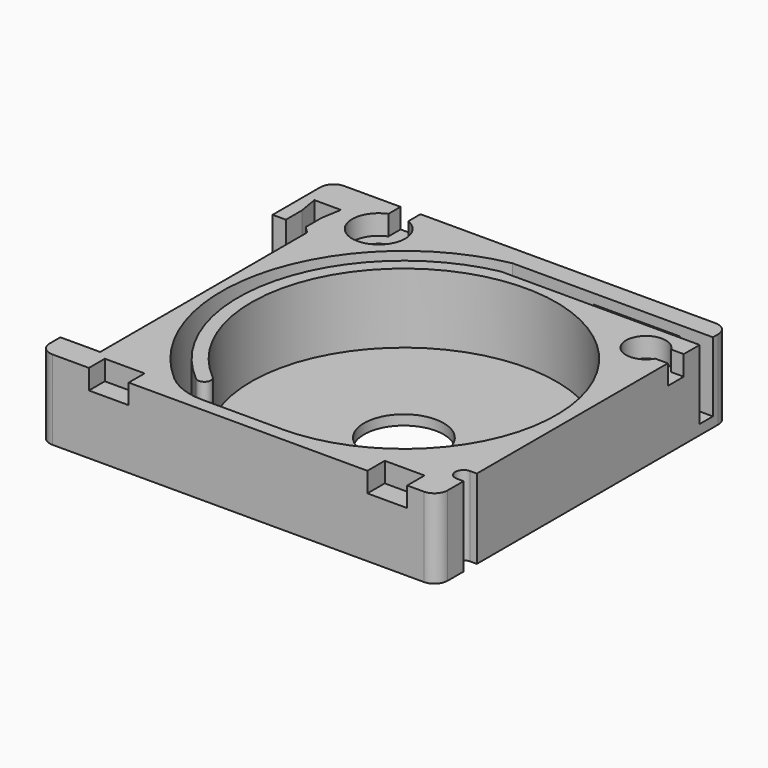
from build123d import *

# Parameters (mm, degrees)
SKETCH_R        = 6
PAD_DEPTH       = 12
POCKET_DEPTH    = 10.5
FILLET_R        = 9
POCKET001_DEPTH = 12.001
SKETCH003_W     = 6
SKETCH003_H     = 40
POCKET002_DEPTH = 10.5
POCKET003_DEPTH = 10
SKETCH005_R     = 4
SKETCH005_R_2   = 3
SKETCH005_W     = 6
SKETCH005_H     = 3
SKETCH005_H_2   = 3.266556
POCKET004_DEPTH = 3
SKETCH006_W     = 13
SKETCH006_H     = 9
POCKET005_DEPTH = 5
POCKET006_DEPTH = 10.5
SKETCH008_W     = 15
SKETCH008_H     = 3
POCKET007_DEPTH = 1.5
SKETCH009_W     = 15
SKETCH009_H     = 3
PAD001_DEPTH    = 1.5
POCKET008_DEPTH = 3
FILLET001_R     = 0.25
SKETCH011_R     = 2
POCKET009_DEPTH = 9.001
CHAMFER_SIZE    = 1


with BuildPart() as part:
    # Sketch → Pad (new body)
    with BuildSketch(Plane.XY):
        with BuildLine():
            ThreePointArc((-33, 30), (-34.414214, 29.414214), (-35, 28))
            Line((-35, -23), (-35, 28))
            ThreePointArc((-35, -23), (-34.414214, -24.414214), (-33, -25))
            Line((23, -25), (-33, -25))
            ThreePointArc((23, -25), (24.414214, -24.414214), (25, -23))
            Line((25, 28), (25, -23))
            ThreePointArc((25, 28), (24.414214, 29.414214), (23, 30))
            Line((-33, 30), (23, 30))
        make_face()
        Circle(SKETCH_R, mode=Mode.SUBTRACT)
    extrude(amount=PAD_DEPTH)

    # Sketch001 (on Face11 of Pad) → Pocket (cut)
    with BuildSketch(Plane.XY.offset(12)):
        with BuildLine():
            ThreePointArc((0, -23), (7.785306, 21.642297), (-14.651471, -17.729479))
            ThreePointArc((-15.925512, -19.271172), (-14.517644, -19.137346), (-14.651471, -17.729479))
            ThreePointArc((-4.974937, 24.5), (-24.252548, 6.067448), (-15.925512, -19.271172))
            Line((-4.974937, 24.5), (25, 24.5))
            Line((25, 24.5), (25, 27))
            Line((25, 27), (-5.220153, 27))
            ThreePointArc((-5.220153, 27), (-26.980945, 5.317761), (-15.074813, -23))
            Line((-15.074813, -23), (0, -23))
        make_face()
    extrude(amount=-POCKET_DEPTH, mode=Mode.SUBTRACT)

    # Fillet
    fillet_edges = [part.edges().sort_by_distance(p)[0] for p in [
        (-15.074813, -23, 6.75),
    ]]
    fillet(fillet_edges, radius=FILLET_R)

    # Sketch002 (on Face1 of Fillet) → Pocket001 (cut, through all)
    with BuildSketch(Plane.XY.offset(12)):
        with BuildLine():
            ThreePointArc((24, -17.5), (22.75, -18.75), (24, -20))
            Line((24, -20), (25, -20))
            Line((25, -17.5), (25, -20))
            Line((24, -17.5), (25, -17.5))
        make_face()
    extrude(amount=-POCKET001_DEPTH, mode=Mode.SUBTRACT)

    # Sketch003 (on Face1 of Pocket001) → Pocket002 (cut)
    with BuildSketch(Plane.XY.offset(12)):
        with Locations((-32, -1)):
            Rectangle(SKETCH003_W, SKETCH003_H)
    extrude(amount=-POCKET002_DEPTH, mode=Mode.SUBTRACT)

    # Sketch004 (on Face1 of Pocket002) → Pocket003 (cut)
    with BuildSketch(Plane.XY.offset(12)):
        Polygon((-33, 22), (-33, 19), (-30, 19), (-30, 22), (-29.5, 25), (-33.5, 25), align=None)
    extrude(amount=-POCKET003_DEPTH, mode=Mode.SUBTRACT)

    # Sketch005 (on Face1 of Pocket003) → Pocket004 (cut)
    with BuildSketch(Plane.XY.offset(12)):
        with Locations((-23, 24)):
            Circle(SKETCH005_R)
        with Locations((20.5, 20)):
            Circle(SKETCH005_R_2)
        with Locations((-24.5, -23.5)):
            Rectangle(SKETCH005_W, SKETCH005_H)
        with Locations((17.5, -23.366722)):
            Rectangle(SKETCH005_W, SKETCH005_H_2)
    extrude(amount=-POCKET004_DEPTH, mode=Mode.SUBTRACT)

    # Sketch006 (on Face32 of Pocket004) → Pocket005 (cut)
    with BuildSketch(Plane(origin=(0, 30, 0), x_dir=(-1, 0, 0), z_dir=(0, 1, 0))):
        with Locations((-13.5, 6)):
            Rectangle(SKETCH006_W, SKETCH006_H)
    extrude(amount=-POCKET005_DEPTH, mode=Mode.SUBTRACT)

    # Sketch007 (on Face1 of Pocket005) → Pocket006 (cut)
    with BuildSketch(Plane.XY.offset(12)):
        Polygon((7, 27.75), (-8, 30), (-4.666667, 30), (7, 28.25), align=None)
    extrude(amount=-POCKET006_DEPTH, mode=Mode.SUBTRACT)

    # Sketch008 (on Face1 of Pocket006) → Pocket007 (cut)
    with BuildSketch(Plane.XY.offset(12)):
        with Locations((-0.5, 28.5)):
            Rectangle(SKETCH008_W, SKETCH008_H)
    extrude(amount=-POCKET007_DEPTH, mode=Mode.SUBTRACT)

    # Sketch009 (on Face54 of Pocket007) → Pad001 (join)
    with BuildSketch(Plane.XY.offset(10.5)):
        with Locations((-0.5, 28.5)):
            Rectangle(SKETCH009_W, SKETCH009_H)
    extrude(amount=PAD001_DEPTH)

    # Sketch010 (on Face45 of Pad001) → Pocket008 (cut)
    with BuildSketch(Plane.XY.offset(12)):
        with BuildLine():
            Line((-24.5, 30), (-24.5, 27.708099))
            ThreePointArc((-21.5, 27.708099), (-23, 28), (-24.5, 27.708099))
            Line((-21.5, 27.708099), (-21.5, 30))
            Line((-21.5, 30), (-24.5, 30))
        make_face()
        with BuildLine():
            Line((23.098076, 18.5), (25, 18.5))
            Line((25, 18.5), (25, 21.5))
            Line((25, 21.5), (23.098076, 21.5))
            ThreePointArc((23.098076, 18.5), (23.5, 20), (23.098076, 21.5))
        make_face()
    extrude(amount=-POCKET008_DEPTH, mode=Mode.SUBTRACT)

    # Fillet001
    fillet001_edges = [part.edges().sort_by_distance(p)[0] for p in [
        (-4.666667, 30, 6),
    ]]
    fillet(fillet001_edges, radius=FILLET001_R)

    # Sketch011 (on Face24 of Fillet001) → Pocket009 (cut, through all)
    with BuildSketch(Plane.XY.offset(9)):
        with Locations((-23, 24)):
            Circle(SKETCH011_R)
        with Locations((20.5, 20)):
            Circle(SKETCH011_R)
    extrude(amount=-POCKET009_DEPTH, mode=Mode.SUBTRACT)

    # Chamfer
    chamfer_edges = [part.edges().sort_by_distance(p)[0] for p in [
        (-29, 19, 6.75),
    ]]
    chamfer(chamfer_edges, length=CHAMFER_SIZE)


solid = part.part
